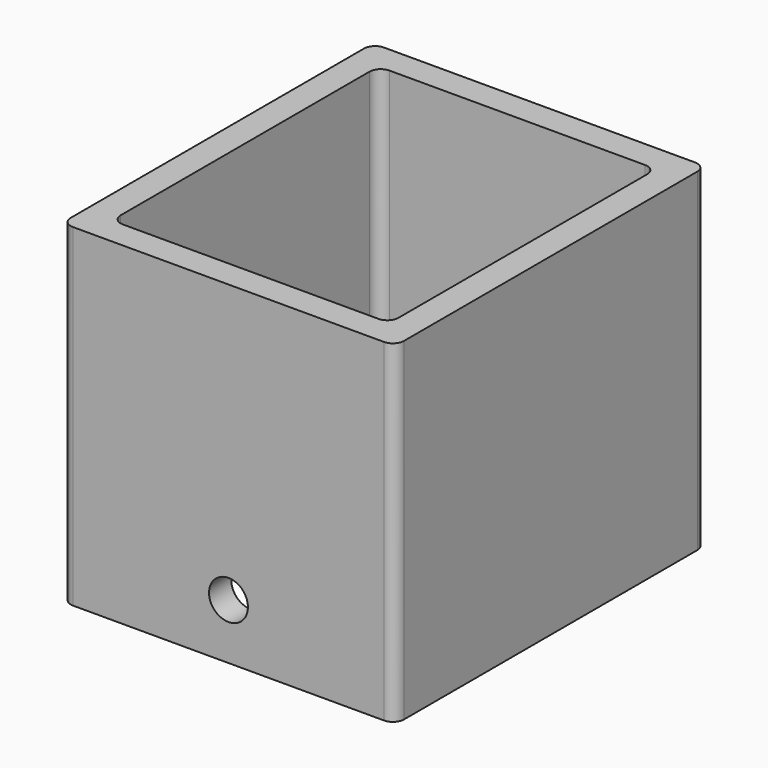
from build123d import *

# Parameters (mm, degrees)
F0_W     = 60
F0_H     = 70
F0_W_2   = 50
F0_H_2   = 60
F1_DEPTH = 60
F2_R     = 2
F3_R     = 3.5
F4_DEPTH = 70


with BuildPart() as f1:
    # F0 (on Top) → F1 (new body)
    with BuildSketch(Plane.XY):
        Rectangle(F0_W, F0_H)
        Rectangle(F0_W_2, F0_H_2, mode=Mode.SUBTRACT)
    extrude(amount=F1_DEPTH)

    # F2
    f2_edges = [f1.edges().sort_by_distance(p)[0] for p in [
        (-30, 35, 30),
        (-30, -35, 30),
        (30, -35, 30),
        (30, 35, 30),
        (-25, 30, 30),
        (-25, -30, 30),
        (25, 30, 30),
        (25, -30, 30),
    ]]
    fillet(f2_edges, radius=F2_R)

    # F3 (on face) → F4 (cut)
    with BuildSketch(Plane(origin=(0, 35, 0), x_dir=(-1, 0, 0), z_dir=(0, 1, 0))):
        with Locations((0, 10)):
            Circle(F3_R)
    extrude(amount=-F4_DEPTH, mode=Mode.SUBTRACT)


solid = f1.part
